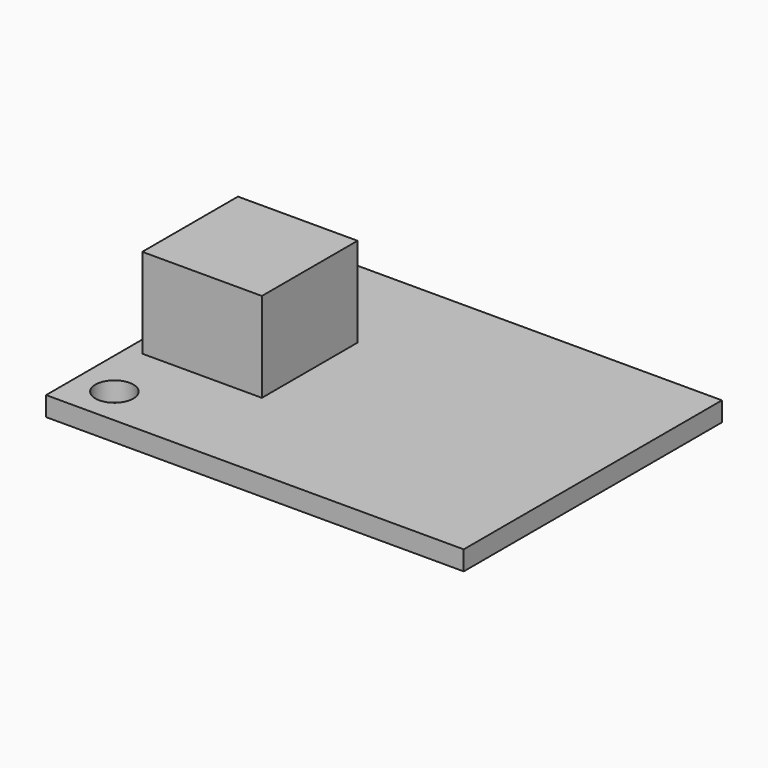
from build123d import *

# Parameters (mm, degrees)
F0_W     = 27.94
F0_H     = 21.59
F0_R     = 1.27
F1_DEPTH = 0.65
F2_W     = 8
F2_H     = 8
F3_DEPTH = 6


with BuildPart() as f1:
    # F0 (on Top) → F1 (new body, symmetric)
    with BuildSketch(Plane.XY):
        Rectangle(F0_W, F0_H)
        with Locations((-11.43, -8.255)):
            Circle(F0_R, mode=Mode.SUBTRACT)
        with Locations((-11.43, 8.255)):
            Circle(F0_R, mode=Mode.SUBTRACT)
    extrude(amount=F1_DEPTH, both=True)

    # F2 (on face) → F3 (join)
    with BuildSketch(Plane.XY.offset(0.65)):
        with Locations((-8.97, 0)):
            Rectangle(F2_W, F2_H)
    extrude(amount=F3_DEPTH)


solid = f1.part
